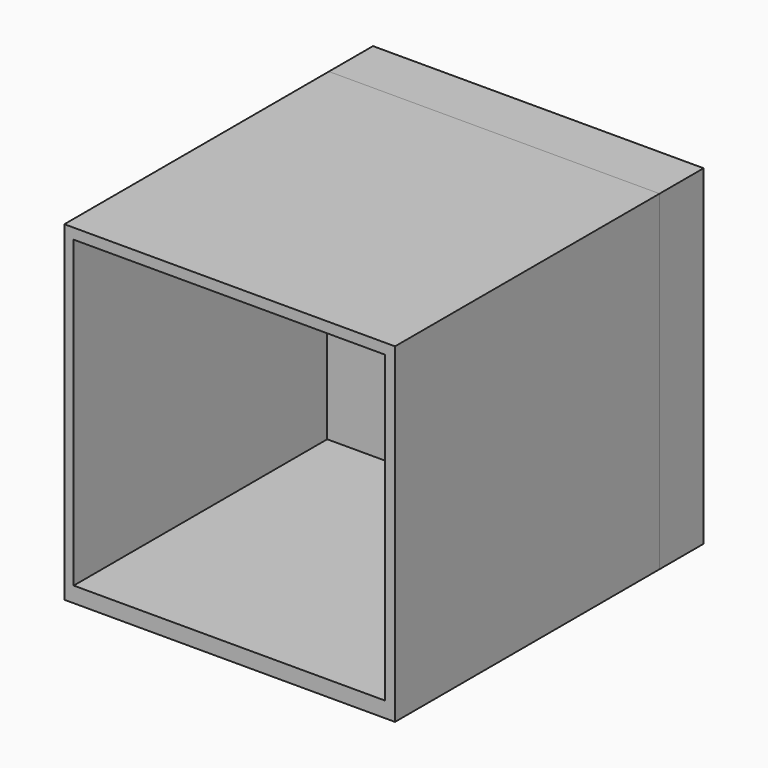
from build123d import *

# Parameters (mm, degrees)
F0_W      = 152.4
F0_H      = 152.4
F1_DEPTH  = 25.4
F1_FACE_W = 152.4
F1_FACE_H = 152.4
F2_DEPTH  = 152.4
F3_W      = 143.51
F3_H      = 140.3604
F4_DEPTH  = 146.05


with BuildPart() as f1:
    # F0 (on Front) → F1 (new body)
    with BuildSketch(Plane.XZ):
        with Locations((-76.2, 76.2)):
            Rectangle(F0_W, F0_H)
    extrude(amount=F1_DEPTH)


with BuildPart() as f2:
    # F1_face (on face) → F2 (new body)
    with BuildSketch(Plane(origin=(-76.2, -25.4, 76.2), x_dir=(1, 0, 0), z_dir=(0, -1, 0))):
        Rectangle(F1_FACE_W, F1_FACE_H)
    extrude(amount=F2_DEPTH)

    # F3 (on face) → F4 (cut)
    with BuildSketch(Plane.XZ.offset(177.8)):
        with Locations((-76.34246, 77.345546)):
            Rectangle(F3_W, F3_H)
    extrude(amount=-F4_DEPTH, mode=Mode.SUBTRACT)


solid = Compound([f1.part, f2.part])
